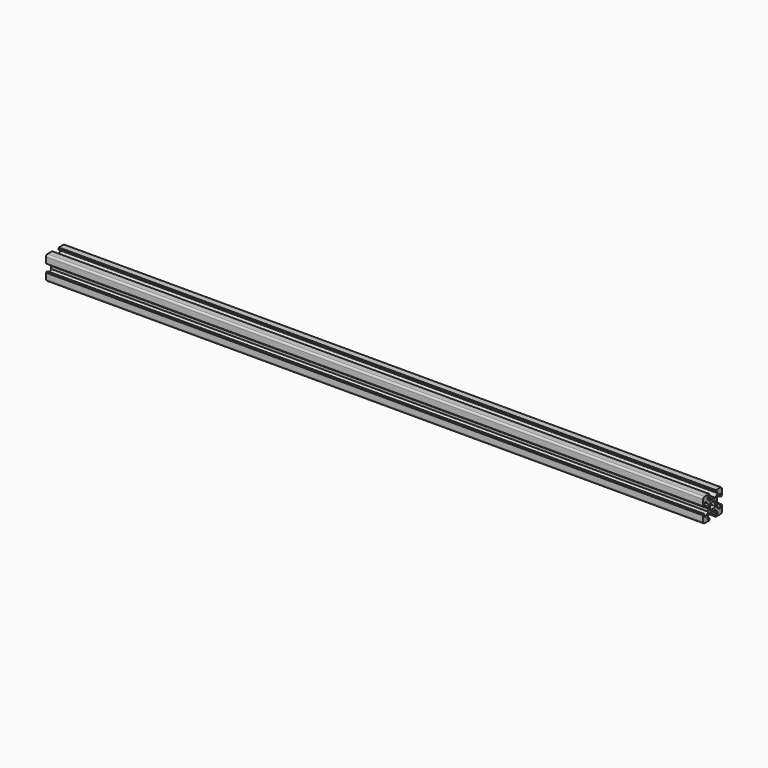
from build123d import *

# Parameters (mm, degrees)
PAD_DEPTH = 560


with BuildPart() as part:
    # Sketch → Pad (new body)
    with BuildSketch(Plane.YZ):
        with BuildLine():
            Line((0, 4.1), (0.65, 4.5))
            Line((0.65, 4.5), (3, 4.5))
            Line((3, 4.5), (5.5, 7))
            Line((5.5, 7), (5.5, 8.5))
            Line((5.5, 8.5), (3, 8.5))
            Line((3, 8.5), (3, 9.5))
            Line((3, 9.5), (3.5, 9.5))
            Line((3.5, 9.5), (3.5, 10))
            Line((3.5, 10), (8.5, 10))
            ThreePointArc((10, 8.5), (9.56066, 9.56066), (8.5, 10))
            Line((10, 8.5), (10, 3.5))
            Line((10, 3.5), (9.5, 3.5))
            Line((9.5, 3.5), (9.5, 3))
            Line((9.5, 3), (8.5, 3))
            Line((8.5, 3), (8.5, 5.5))
            Line((8.5, 5.5), (7, 5.5))
            Line((7, 5.5), (4.5, 3))
            Line((4.5, 3), (4.5, 0.65))
            Line((4.5, 0.65), (4.1, 0))
            Line((4.5, -0.65), (4.1, 0))
            Line((4.5, -3), (4.5, -0.65))
            Line((7, -5.5), (4.5, -3))
            Line((8.5, -5.5), (7, -5.5))
            Line((8.5, -3), (8.5, -5.5))
            Line((9.5, -3), (8.5, -3))
            Line((9.5, -3.5), (9.5, -3))
            Line((10, -3.5), (9.5, -3.5))
            Line((10, -8.5), (10, -3.5))
            ThreePointArc((8.5, -10), (9.56066, -9.56066), (10, -8.5))
            Line((3.5, -10), (8.5, -10))
            Line((3.5, -9.5), (3.5, -10))
            Line((3, -9.5), (3.5, -9.5))
            Line((3, -8.5), (3, -9.5))
            Line((5.5, -8.5), (3, -8.5))
            Line((5.5, -7), (5.5, -8.5))
            Line((3, -4.5), (5.5, -7))
            Line((0.65, -4.5), (3, -4.5))
            Line((0, -4.1), (0.65, -4.5))
            Line((0, -4.1), (-0.65, -4.5))
            Line((-0.65, -4.5), (-3, -4.5))
            Line((-3, -4.5), (-5.5, -7))
            Line((-5.5, -7), (-5.5, -8.5))
            Line((-5.5, -8.5), (-3, -8.5))
            Line((-3, -8.5), (-3, -9.5))
            Line((-3, -9.5), (-3.5, -9.5))
            Line((-3.5, -9.5), (-3.5, -10))
            Line((-3.5, -10), (-8.5, -10))
            ThreePointArc((-10, -8.5), (-9.56066, -9.56066), (-8.5, -10))
            Line((-10, -8.5), (-10, -3.5))
            Line((-10, -3.5), (-9.5, -3.5))
            Line((-9.5, -3.5), (-9.5, -3))
            Line((-9.5, -3), (-8.5, -3))
            Line((-8.5, -3), (-8.5, -5.5))
            Line((-8.5, -5.5), (-7, -5.5))
            Line((-7, -5.5), (-4.5, -3))
            Line((-4.5, -3), (-4.5, -0.65))
            Line((-4.5, -0.65), (-4.1, 0))
            Line((-4.5, 0.65), (-4.1, 0))
            Line((-4.5, 3), (-4.5, 0.65))
            Line((-7, 5.5), (-4.5, 3))
            Line((-8.5, 5.5), (-7, 5.5))
            Line((-8.5, 3), (-8.5, 5.5))
            Line((-9.5, 3), (-8.5, 3))
            Line((-9.5, 3.5), (-9.5, 3))
            Line((-10, 3.5), (-9.5, 3.5))
            Line((-10, 8.5), (-10, 3.5))
            ThreePointArc((-8.5, 10), (-9.56066, 9.56066), (-10, 8.5))
            Line((-3.5, 10), (-8.5, 10))
            Line((-3.5, 9.5), (-3.5, 10))
            Line((-3, 9.5), (-3.5, 9.5))
            Line((-3, 8.5), (-3, 9.5))
            Line((-5.5, 8.5), (-3, 8.5))
            Line((-5.5, 7), (-5.5, 8.5))
            Line((-3, 4.5), (-5.5, 7))
            Line((-0.65, 4.5), (-3, 4.5))
            Line((0, 4.1), (-0.65, 4.5))
        make_face()
        with BuildLine():
            Line((1.340499, 2.401159), (1.923239, 2.983899))
            Line((1.923239, 2.983899), (2.983899, 1.923239))
            Line((2.983899, 1.923239), (2.401159, 1.340499))
            ThreePointArc((2.75, 0), (2.661361, 0.692573), (2.401159, 1.340499))
            ThreePointArc((2.401164, -1.34049), (2.661362, -0.692568), (2.75, 0))
            Line((2.983904, -1.92323), (2.401164, -1.34049))
            Line((1.923247, -2.983894), (2.983904, -1.92323))
            Line((1.340507, -2.401154), (1.923247, -2.983894))
            ThreePointArc((0, -2.75), (0.692577, -2.66136), (1.340507, -2.401154))
            ThreePointArc((-1.340507, -2.401154), (-0.692577, -2.66136), (0, -2.75))
            Line((-1.340507, -2.401154), (-1.923247, -2.983894))
            Line((-1.923247, -2.983894), (-2.983904, -1.92323))
            Line((-2.983904, -1.92323), (-2.401164, -1.34049))
            ThreePointArc((-2.75, 0), (-2.661362, -0.692568), (-2.401164, -1.34049))
            ThreePointArc((-2.401159, 1.340499), (-2.661361, 0.692572), (-2.75, 0))
            Line((-2.983899, 1.923239), (-2.401159, 1.340499))
            Line((-1.923239, 2.983899), (-2.983899, 1.923239))
            Line((-1.340499, 2.401159), (-1.923239, 2.983899))
            ThreePointArc((0, 2.75), (-0.692573, 2.661361), (-1.340499, 2.401159))
            ThreePointArc((1.340499, 2.401159), (0.692573, 2.661361), (0, 2.75))
        make_face(mode=Mode.SUBTRACT)
    extrude(amount=PAD_DEPTH)


solid = part.part
